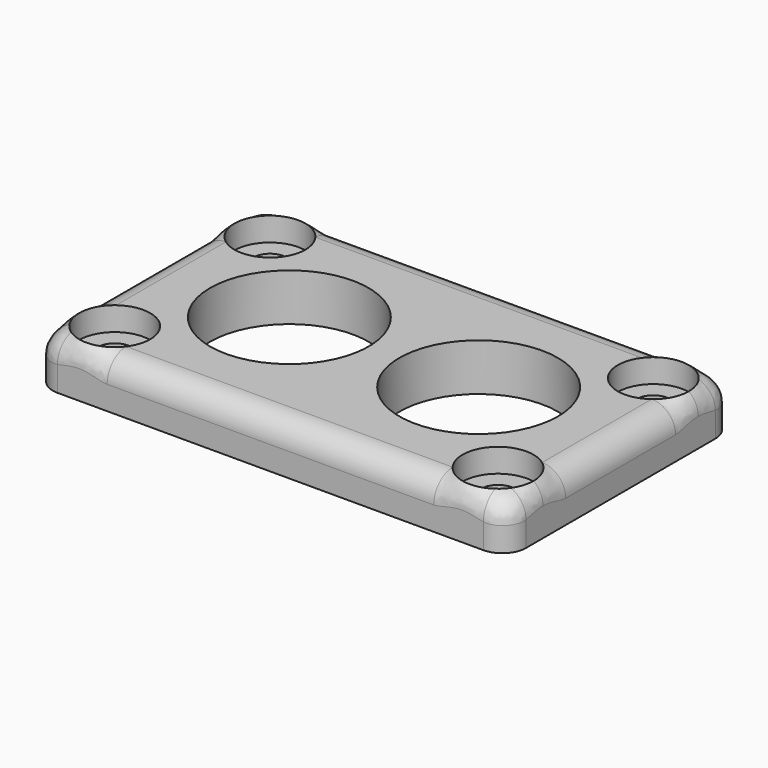
from build123d import *

# Parameters (mm, degrees)
SKETCH048_W         = 40
SKETCH048_H         = 24
PAD013_DEPTH        = 4
HOLE020_D           = 2.8
HOLE020_DEPTH       = 25
HOLE020_CBORE_D     = 6
HOLE020_CBORE_DEPTH = 2
SKETCH050_R         = 6.7
HOLE021_DEPTH       = 25
FILLET018_R         = 2
FILLET019_R         = 2


with BuildPart() as part:
    # Sketch048 → Pad013 (new body)
    with BuildSketch(Plane.XY):
        Rectangle(SKETCH048_W, SKETCH048_H)
    extrude(amount=PAD013_DEPTH)

    # Hole020
    with Locations(Plane.XY.offset(4)):
        with Locations((16.2, 8.2), (16.2, -8.2)):
            hole020 = CounterBoreHole(HOLE020_D / 2, HOLE020_CBORE_D / 2, HOLE020_CBORE_DEPTH, depth=HOLE020_DEPTH)

    # Mirrored023: Hole020 across Sketch049 V_Axis
    add(hole020.mirror(Plane(origin=(0, 0, 4), x_dir=(0, 0, 1), z_dir=(1, 0, 0))), mode=Mode.SUBTRACT)

    # Sketch050 (on Face5 of Mirrored023) → Hole021 (cut)
    with BuildSketch(Plane.XY.offset(4)):
        with Locations((8, 0)):
            Circle(SKETCH050_R)
    hole021 = extrude(amount=-HOLE021_DEPTH, mode=Mode.SUBTRACT)

    # Mirrored024: Hole021 across Sketch050 V_Axis
    add(hole021.mirror(Plane(origin=(0, 0, 4), x_dir=(0, 0, 1), z_dir=(1, 0, 0))), mode=Mode.SUBTRACT)

    # Fillet018
    fillet018_edges = [part.edges().sort_by_distance(p)[0] for p in [
        (-20, -12, 2),
        (20, -12, 2),
        (20, 12, 2),
        (-20, 12, 2),
    ]]
    fillet(fillet018_edges, radius=FILLET018_R)

    # Fillet019
    fillet019_edges = [part.edges().sort_by_distance(p)[0] for p in [
        (20, 0, 4),
        (19.414214, 11.414214, 4),
        (0, 12, 4),
        (-19.414214, 11.414214, 4),
        (-20, 0, 4),
        (-19.414214, -11.414214, 4),
        (0, -12, 4),
        (19.414214, -11.414214, 4),
    ]]
    fillet(fillet019_edges, radius=FILLET019_R)


solid = part.part
